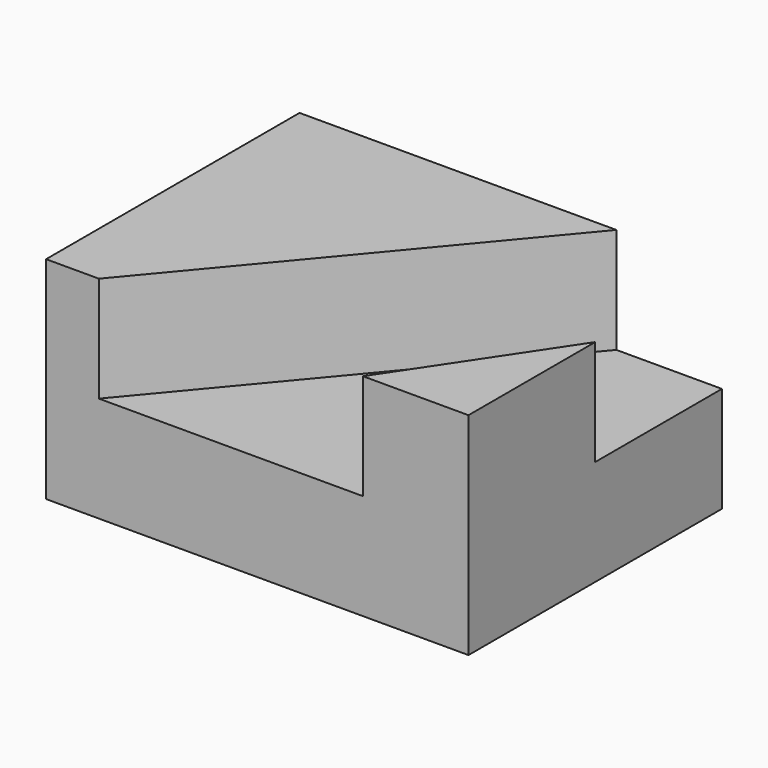
from build123d import *

# Parameters (mm, degrees)
F0_W     = 50.8
F0_H     = 25.4
F1_DEPTH = 38.1
F3_DEPTH = 12.7
F5_DEPTH = 12.7


with BuildPart() as f1:
    # F0 (on Front) → F1 (new body)
    with BuildSketch(Plane.XZ):
        with Locations((25.4, 12.7)):
            Rectangle(F0_W, F0_H)
    extrude(amount=F1_DEPTH)

    # F2 (on face) → F3 (cut)
    with BuildSketch(Plane.XY.offset(25.4)):
        Polygon((0, -38.1), (38.1, -38.1), (50.8, -19.05), (50.8, 0), (38.1, 0), (0, -31.75), align=None)
    extrude(amount=-F3_DEPTH, mode=Mode.SUBTRACT)

    # F4 (on face) → F5 (join)
    with BuildSketch(Plane.XY.offset(12.7)):
        Polygon((0, -38.1), (6.35, -38.1), (38.1, 0), (0, 0), align=None)
    extrude(amount=F5_DEPTH)


solid = f1.part
